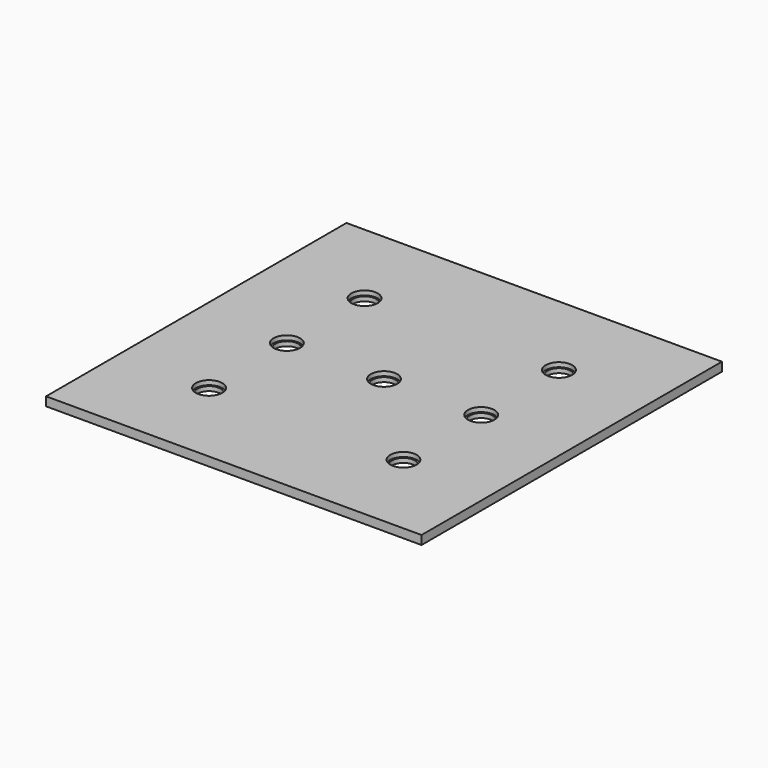
from build123d import *

# Parameters (mm, degrees)
SKETCH_W     = 85
SKETCH_H     = 85
SKETCH_R     = 2.625
PAD_DEPTH    = 2
SKETCH001_R  = 3
POCKET_DEPTH = 1


with BuildPart() as part:
    # Sketch → Pad (new body)
    with BuildSketch(Plane.XY):
        Rectangle(SKETCH_W, SKETCH_H)
        with Locations((-22, 22)):
            Circle(SKETCH_R, mode=Mode.SUBTRACT)
        with Locations((-22, 0)):
            Circle(SKETCH_R, mode=Mode.SUBTRACT)
        with Locations((-22, -22)):
            Circle(SKETCH_R, mode=Mode.SUBTRACT)
        Circle(SKETCH_R, mode=Mode.SUBTRACT)
        with Locations((22, 22)):
            Circle(SKETCH_R, mode=Mode.SUBTRACT)
        with Locations((22, 0)):
            Circle(SKETCH_R, mode=Mode.SUBTRACT)
        with Locations((22, -22)):
            Circle(SKETCH_R, mode=Mode.SUBTRACT)
    extrude(amount=PAD_DEPTH)

    # Sketch001 (on Face13 of Pad) → Pocket (cut)
    with BuildSketch(Plane.XY.offset(2)):
        with Locations((-22, 22)):
            Circle(SKETCH001_R)
        with Locations((-22, 0)):
            Circle(SKETCH001_R)
        with Locations((-22, -22)):
            Circle(SKETCH001_R)
        Circle(SKETCH001_R)
        with Locations((22, 0)):
            Circle(SKETCH001_R)
        with Locations((22, 22)):
            Circle(SKETCH001_R)
        with Locations((22, -22)):
            Circle(SKETCH001_R)
    extrude(amount=-POCKET_DEPTH, mode=Mode.SUBTRACT)


solid = part.part
